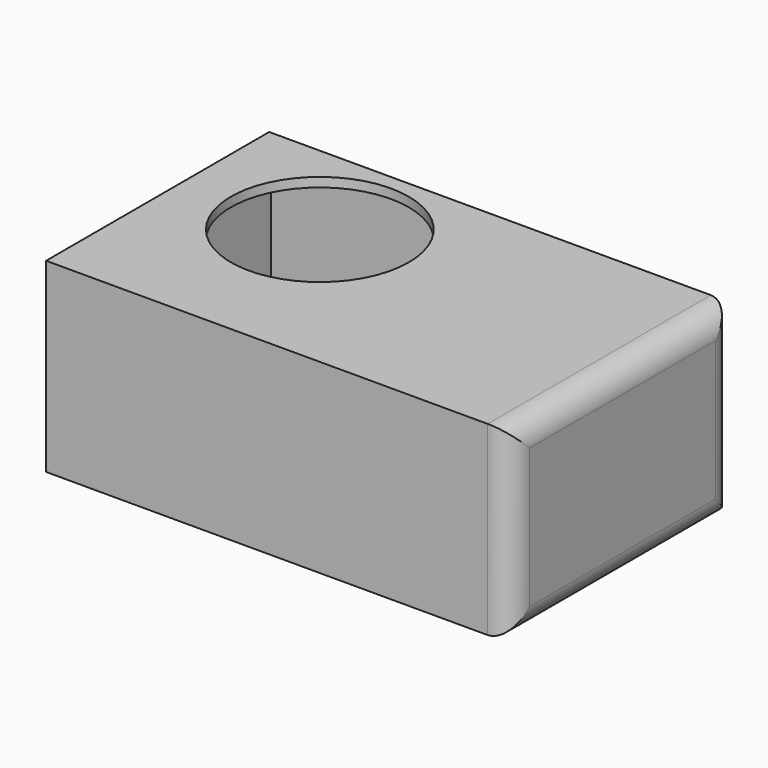
from build123d import *

# Parameters (mm, degrees)
F0_W     = 127
F0_H     = 76.2
F1_DEPTH = 50.8
F2_R     = 24.309053
F3_DEPTH = 50.801
F4_T     = -2.54
F5_R     = 6.35


with BuildPart() as f1:
    # F0 (on Top) → F1 (new body)
    with BuildSketch(Plane.XY):
        with Locations((63.5, 38.1)):
            Rectangle(F0_W, F0_H)
    extrude(amount=F1_DEPTH)

    # F2 (on face) → F3 (cut, through all)
    with BuildSketch(Plane.XY.offset(50.8)):
        with Locations((36.587957, 47.760736)):
            Circle(F2_R)
    extrude(amount=-F3_DEPTH, mode=Mode.SUBTRACT)

    # F4
    f4_openings = [f1.faces().sort_by_distance(p)[0] for p in [
        (12.278904, 47.760736, 25.4),
    ]]
    offset(amount=F4_T, openings=f4_openings)

    # F5
    f5_edges = [f1.edges().sort_by_distance(p)[0] for p in [
        (127, 76.2, 25.4),
        (127, 38.1, 0),
        (127, 0, 25.4),
        (127, 38.1, 50.8),
    ]]
    fillet(f5_edges, radius=F5_R)


solid = f1.part
